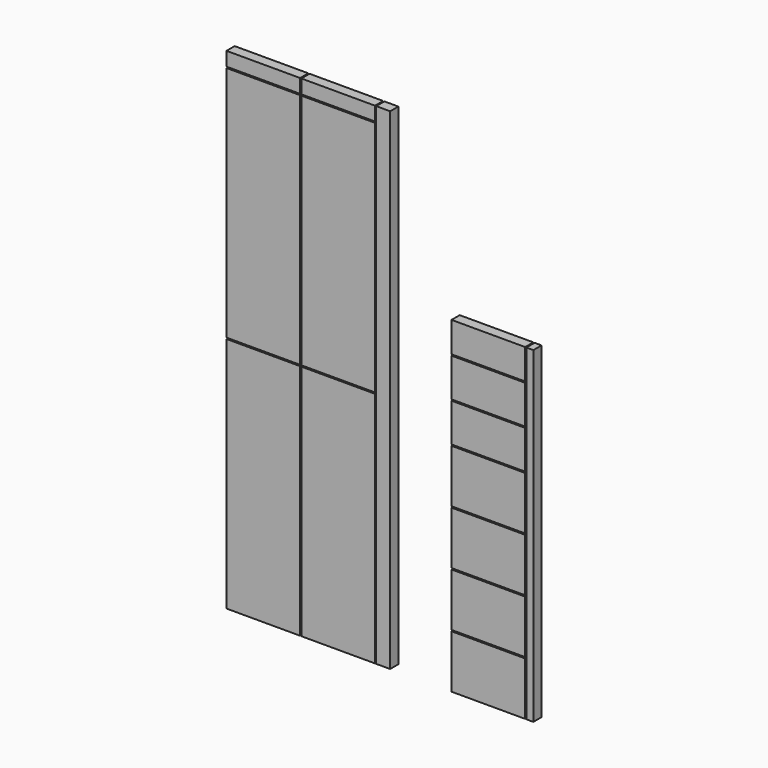
from build123d import *

# Parameters (mm, degrees)
F0_W     = 180
F0_H     = 580
F1_DEPTH = 25
F0_H_2   = 34
F2_W     = 180
F2_H     = 130
F3_DEPTH = 25
F2_H_2   = 94
F2_H_3   = 74
F2_W_2   = 17
F2_H_4   = 800


with BuildPart() as f1:
    # F0 (on Front) → F1 (new body)
    with BuildSketch(Plane.XZ):
        with Locations((90, 873)):
            Rectangle(F0_W, F0_H)
    extrude(amount=F1_DEPTH)


with BuildPart() as f1b:
    # F0 (on Front) → F1, piece 2 (new body)
    with BuildSketch(Plane.XZ):
        with Locations((273, 873)):
            Rectangle(F0_W, F0_H)
    extrude(amount=F1_DEPTH)


with BuildPart() as f1c:
    # F0 (on Front) → F1, piece 3 (new body)
    with BuildSketch(Plane.XZ):
        with Locations((90, 290)):
            Rectangle(F0_W, F0_H)
    extrude(amount=F1_DEPTH)


with BuildPart() as f1d:
    # F0 (on Front) → F1, piece 4 (new body)
    with BuildSketch(Plane.XZ):
        with Locations((273, 290)):
            Rectangle(F0_W, F0_H)
    extrude(amount=F1_DEPTH)


with BuildPart() as f1e:
    # F0 (on Front) → F1, piece 5 (new body)
    with BuildSketch(Plane.XZ):
        with Locations((90, 1183)):
            Rectangle(F0_W, F0_H_2)
    extrude(amount=F1_DEPTH)


with BuildPart() as f1f:
    # F0 (on Front) → F1, piece 6 (new body)
    with BuildSketch(Plane.XZ):
        with Locations((273, 1183)):
            Rectangle(F0_W, F0_H_2)
    extrude(amount=F1_DEPTH)


with BuildPart() as f1g:
    # F0 (on Front) → F1, piece 7 (new body)
    with BuildSketch(Plane.XZ):
        Polygon((366, 580), (366, 0), (400, 0), (400, 1200), (366, 1200), (366, 1166), (366, 1163), (366, 583), align=None)
    extrude(amount=F1_DEPTH)


with BuildPart() as f3:
    # F2 (on Front) → F3 (new body)
    with BuildSketch(Plane.XZ):
        with Locations((640, 65)):
            Rectangle(F2_W, F2_H)
    extrude(amount=F3_DEPTH)


with BuildPart() as f3b:
    # F2 (on Front) → F3, piece 2 (new body)
    with BuildSketch(Plane.XZ):
        with Locations((640, 198)):
            Rectangle(F2_W, F2_H)
    extrude(amount=F3_DEPTH)


with BuildPart() as f3c:
    # F2 (on Front) → F3, piece 3 (new body)
    with BuildSketch(Plane.XZ):
        with Locations((640, 331)):
            Rectangle(F2_W, F2_H)
    extrude(amount=F3_DEPTH)


with BuildPart() as f3d:
    # F2 (on Front) → F3, piece 4 (new body)
    with BuildSketch(Plane.XZ):
        with Locations((640, 464)):
            Rectangle(F2_W, F2_H)
    extrude(amount=F3_DEPTH)


with BuildPart() as f3e:
    # F2 (on Front) → F3, piece 5 (new body)
    with BuildSketch(Plane.XZ):
        with Locations((640, 579)):
            Rectangle(F2_W, F2_H_2)
    extrude(amount=F3_DEPTH)


with BuildPart() as f3f:
    # F2 (on Front) → F3, piece 6 (new body)
    with BuildSketch(Plane.XZ):
        with Locations((640, 676)):
            Rectangle(F2_W, F2_H_2)
    extrude(amount=F3_DEPTH)


with BuildPart() as f3g:
    # F2 (on Front) → F3, piece 7 (new body)
    with BuildSketch(Plane.XZ):
        with Locations((640, 763)):
            Rectangle(F2_W, F2_H_3)
    extrude(amount=F3_DEPTH)


with BuildPart() as f3h:
    # F2 (on Front) → F3, piece 8 (new body)
    with BuildSketch(Plane.XZ):
        with Locations((741.5, 400)):
            Rectangle(F2_W_2, F2_H_4)
    extrude(amount=F3_DEPTH)


solid = Compound([f1.part, f1b.part, f1c.part, f1d.part, f1e.part, f1f.part, f1g.part, f3.part, f3b.part, f3c.part, f3d.part, f3e.part, f3f.part, f3g.part, f3h.part])
